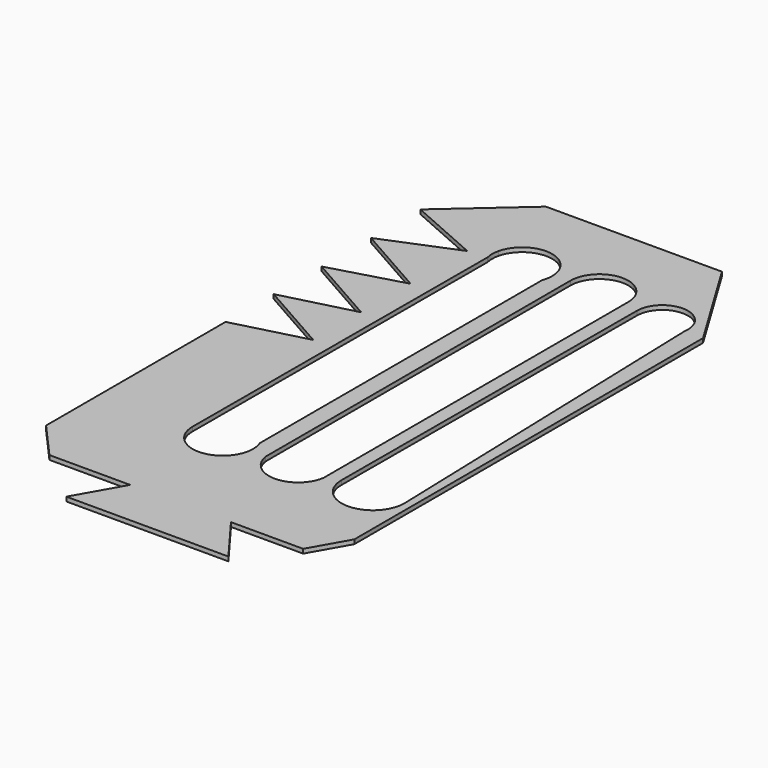
from build123d import *

# Parameters (mm, degrees)
F1_DEPTH = 1
F3_DEPTH = 1


with BuildPart() as f1:
    # F0 (on Top) → F1 (new body)
    with BuildSketch(Plane.XY):
        Polygon((12.651404, 85.822819), (-28.614573, 85.822819), (-45.86415, 70.602764), (-28.846802, 63.09859), (-45.86415, 56.122149), (-28.846802, 46.468406), (-45.86415, 41.641531), (-28.846802, 31.987788), (-45.86415, 27.599723), (-28.846802, 17.94598), (-45.86415, 13.503664), (-45.86415, -39.098875), (-38.06174, -47.875002), (-19.141939, -47.875002), (-25.34835, -58.81549), (12.651404, -58.81549), (4.502493, -47.875002), (21.428692, -47.875002), (26.407287, -39.098875), (26.407287, 63.09859), align=None)
    extrude(amount=F1_DEPTH)

    # F2 (on face) → F3 (cut)
    with BuildSketch(Plane.XY.offset(1)):
        with BuildLine():
            Line((-10.944886, 67.442728), (-10.944886, 62.627868))
            ThreePointArc((-10.944886, 62.627868), (-10.519625, 65.035298), (-10.944886, 67.442728))
        make_face()
        with BuildLine():
            Line((-10.944886, -20.112349), (-10.944886, 62.627868))
            Line((-10.944886, 62.627868), (-10.944886, 67.442728))
            ThreePointArc((-10.944886, 67.442728), (-17.969793, 72.049479), (-24.389813, 66.631471))
            Line((-24.389813, 66.631471), (-24.398557, 63.477087))
            Line((-24.398557, 63.477087), (-24.637369, -22.680704))
            ThreePointArc((-24.637369, -22.680704), (-16.239304, -29.669648), (-10.944886, -20.112349))
        make_face()
        with BuildLine():
            Line((-24.398557, 63.477087), (-24.389813, 66.631471))
            ThreePointArc((-24.389813, 66.631471), (-24.573473, 65.054776), (-24.398557, 63.477087))
        make_face()
        with BuildLine():
            Line((-6.775405, 65.73049), (-6.775405, -23.601575))
            ThreePointArc((-6.775405, -23.601575), (0, -29.413971), (6.775405, -23.601575))
            Line((6.775405, -23.601575), (6.775405, 65.73049))
            ThreePointArc((6.775405, 65.73049), (0, 72.505895), (-6.775405, 65.73049))
        make_face()
        with BuildLine():
            Line((10.182706, 63.992515), (9.907027, -22.191573))
            ThreePointArc((9.907027, -22.191573), (17.372692, -29.580637), (24.635973, -21.992544))
            Line((24.635973, -21.992544), (22.063504, 63.09859))
            ThreePointArc((22.063504, 63.09859), (16.604961, 69.949706), (10.182706, 63.992515))
        make_face()
    extrude(amount=-F3_DEPTH, mode=Mode.SUBTRACT)


solid = f1.part
